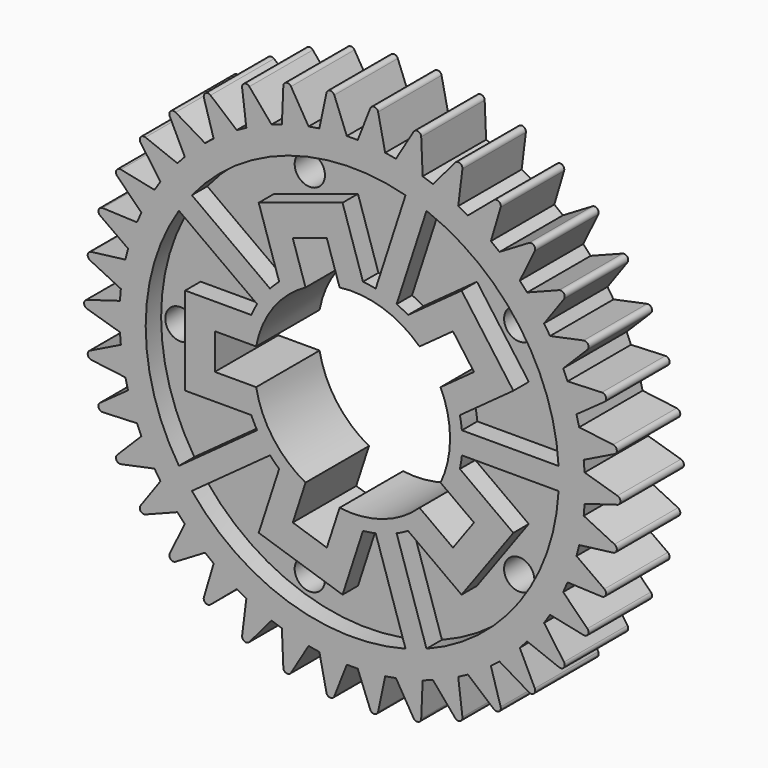
from build123d import *

# Parameters (mm, degrees)
F0_R     = 2.75
F1_DEPTH = 7.2
F2_R     = 2.75
F3_DEPTH = 3.5


with BuildPart() as f1:
    # F0 (on Front) → F1 (new body)
    with BuildSketch(Plane.XZ):
        with BuildLine():
            Line((-42.175971, 2.5), (-48.140595, 0.718635))
            ThreePointArc((-48.140595, 0.718635), (-48.675971, 0), (-48.140595, -0.718635))
            Line((-48.140595, -0.718635), (-42.175971, -2.5))
            Line((-42.175971, -2.5), (-42.012232, -4.476033))
            Line((-42.012232, -4.476033), (-47.602303, -7.214848))
            ThreePointArc((-47.602303, -7.214848), (-48.012094, -8.011801), (-47.365736, -8.632515))
            Line((-47.365736, -8.632515), (-41.189259, -9.40784))
            Line((-41.189259, -9.40784), (-40.702509, -11.329972))
            Line((-40.702509, -11.329972), (-45.765545, -14.951528))
            ThreePointArc((-45.765545, -14.951528), (-46.038572, -15.805062), (-45.298864, -16.310923))
            Line((-45.298864, -16.310923), (-39.079012, -16.059058))
            Line((-39.079012, -16.059058), (-38.282528, -17.874859))
            Line((-38.282528, -17.874859), (-42.680422, -22.28037))
            ThreePointArc((-42.680422, -22.28037), (-42.809238, -23.167201), (-41.996357, -23.544411))
            Line((-41.996357, -23.544411), (-35.902791, -22.272228))
            Line((-35.902791, -22.272228), (-34.818299, -23.932166))
            Line((-34.818299, -23.932166), (-38.431088, -29.001461))
            ThreePointArc((-38.431088, -29.001461), (-38.41218, -29.8974), (-37.548299, -30.135669))
            Line((-37.548299, -30.135669), (-31.747235, -27.877869))
            Line((-31.747235, -27.877869), (-30.404317, -29.336666))
            Line((-30.404317, -29.336666), (-33.133455, -34.931468))
            ThreePointArc((-33.133455, -34.931468), (-32.967338, -35.812075), (-32.076021, -35.904905))
            Line((-32.076021, -35.904905), (-26.725698, -32.723074))
            Line((-26.725698, -32.723074), (-25.160986, -33.940938))
            Line((-25.160986, -33.940938), (-26.932027, -39.908636))
            ThreePointArc((-26.932027, -39.908636), (-26.623232, -40.749891), (-25.728792, -40.694748))
            Line((-25.728792, -40.694748), (-20.975153, -36.675679))
            Line((-20.975153, -36.675679), (-19.231328, -37.61939))
            Line((-19.231328, -37.61939), (-19.995964, -43.7972))
            ThreePointArc((-19.995964, -43.7972), (-19.552915, -44.576156), (-18.67975, -44.374545))
            Line((-18.67975, -44.374545), (-14.652461, -39.627868))
            Line((-14.652461, -39.627868), (-12.777089, -40.271683))
            Line((-12.777089, -40.271683), (-12.514462, -46.491091))
            ThreePointArc((-12.514462, -46.491091), (-11.949244, -47.186499), (-11.121172, -46.84392))
            Line((-11.121172, -46.84392), (-7.930088, -41.499111))
            Line((-7.930088, -41.499111), (-5.974325, -41.82547))
            Line((-5.974325, -41.82547), (-4.691599, -47.916826))
            ThreePointArc((-4.691599, -47.916826), (-4.01963, -48.509718), (-3.259238, -48.035515))
            Line((-3.259238, -48.035515), (-0.991403, -42.238367))
            Line((-0.991403, -42.238367), (0.991403, -42.238367))
            Line((0.991403, -42.238367), (3.259238, -48.035515))
            ThreePointArc((3.259238, -48.035515), (4.01963, -48.509718), (4.691599, -47.916826))
            Line((4.691599, -47.916826), (5.974325, -41.82547))
            Line((5.974325, -41.82547), (7.930088, -41.499111))
            Line((7.930088, -41.499111), (11.121172, -46.84392))
            ThreePointArc((11.121172, -46.84392), (11.949244, -47.186499), (12.514462, -46.491091))
            Line((12.514462, -46.491091), (12.777089, -40.271683))
            Line((12.777089, -40.271683), (14.652461, -39.627868))
            Line((14.652461, -39.627868), (18.67975, -44.374545))
            ThreePointArc((18.67975, -44.374545), (19.552915, -44.576156), (19.995964, -43.7972))
            Line((19.995964, -43.7972), (19.231328, -37.61939))
            Line((19.231328, -37.61939), (20.975153, -36.675679))
            Line((20.975153, -36.675679), (25.728792, -40.694748))
            ThreePointArc((25.728792, -40.694748), (26.623232, -40.749891), (26.932027, -39.908636))
            Line((26.932027, -39.908636), (25.160986, -33.940938))
            Line((25.160986, -33.940938), (26.725698, -32.723074))
            Line((26.725698, -32.723074), (32.076021, -35.904905))
            ThreePointArc((32.076021, -35.904905), (32.967338, -35.812075), (33.133455, -34.931468))
            Line((33.133455, -34.931468), (30.404317, -29.336666))
            Line((30.404317, -29.336666), (31.747235, -27.877869))
            Line((31.747235, -27.877869), (37.548299, -30.135669))
            ThreePointArc((37.548299, -30.135669), (38.41218, -29.8974), (38.431088, -29.001461))
            Line((38.431088, -29.001461), (34.818299, -23.932166))
            Line((34.818299, -23.932166), (35.902791, -22.272228))
            Line((35.902791, -22.272228), (41.996357, -23.544411))
            ThreePointArc((41.996357, -23.544411), (42.809238, -23.167201), (42.680422, -22.28037))
            Line((42.680422, -22.28037), (38.282528, -17.874859))
            Line((38.282528, -17.874859), (39.079012, -16.059058))
            Line((39.079012, -16.059058), (45.298864, -16.310923))
            ThreePointArc((45.298864, -16.310923), (46.038572, -15.805062), (45.765545, -14.951528))
            Line((45.765545, -14.951528), (40.702509, -11.329972))
            Line((40.702509, -11.329972), (41.189259, -9.40784))
            Line((41.189259, -9.40784), (47.365736, -8.632515))
            ThreePointArc((47.365736, -8.632515), (48.012094, -8.011801), (47.602303, -7.214848))
            Line((47.602303, -7.214848), (42.012232, -4.476033))
            Line((42.012232, -4.476033), (42.175971, -2.5))
            Line((42.175971, -2.5), (48.140595, -0.718635))
            ThreePointArc((48.140595, -0.718635), (48.675971, 0), (48.140595, 0.718635))
            Line((48.140595, 0.718635), (42.175971, 2.5))
            Line((42.175971, 2.5), (42.012232, 4.476033))
            Line((42.012232, 4.476033), (47.602303, 7.214848))
            ThreePointArc((47.602303, 7.214848), (48.012094, 8.011801), (47.365736, 8.632515))
            Line((47.365736, 8.632515), (41.189259, 9.40784))
            Line((41.189259, 9.40784), (40.702509, 11.329972))
            Line((40.702509, 11.329972), (45.765545, 14.951528))
            ThreePointArc((45.765545, 14.951528), (46.038572, 15.805062), (45.298864, 16.310923))
            Line((45.298864, 16.310923), (39.079012, 16.059058))
            Line((39.079012, 16.059058), (38.282528, 17.874859))
            Line((38.282528, 17.874859), (42.680422, 22.28037))
            ThreePointArc((42.680422, 22.28037), (42.809238, 23.167201), (41.996357, 23.544411))
            Line((41.996357, 23.544411), (35.902791, 22.272228))
            Line((35.902791, 22.272228), (34.818299, 23.932166))
            Line((34.818299, 23.932166), (38.431088, 29.001461))
            ThreePointArc((38.431088, 29.001461), (38.41218, 29.8974), (37.548299, 30.135669))
            Line((37.548299, 30.135669), (31.747235, 27.877869))
            Line((31.747235, 27.877869), (30.404317, 29.336666))
            Line((30.404317, 29.336666), (33.133455, 34.931468))
            ThreePointArc((33.133455, 34.931468), (32.967338, 35.812075), (32.076021, 35.904905))
            Line((32.076021, 35.904905), (26.725698, 32.723074))
            Line((26.725698, 32.723074), (25.160986, 33.940938))
            Line((25.160986, 33.940938), (26.932027, 39.908636))
            ThreePointArc((26.932027, 39.908636), (26.623232, 40.749891), (25.728792, 40.694748))
            Line((25.728792, 40.694748), (20.975153, 36.675679))
            Line((20.975153, 36.675679), (19.231328, 37.61939))
            Line((19.231328, 37.61939), (19.995964, 43.7972))
            ThreePointArc((19.995964, 43.7972), (19.552915, 44.576156), (18.67975, 44.374545))
            Line((18.67975, 44.374545), (14.652461, 39.627868))
            Line((14.652461, 39.627868), (12.777089, 40.271683))
            Line((12.777089, 40.271683), (12.514462, 46.491091))
            ThreePointArc((12.514462, 46.491091), (11.949244, 47.186499), (11.121172, 46.84392))
            Line((11.121172, 46.84392), (7.930088, 41.499111))
            Line((7.930088, 41.499111), (5.974325, 41.82547))
            Line((5.974325, 41.82547), (4.691599, 47.916826))
            ThreePointArc((4.691599, 47.916826), (4.01963, 48.509718), (3.259238, 48.035515))
            Line((3.259238, 48.035515), (0.991403, 42.238367))
            Line((0.991403, 42.238367), (-0.991403, 42.238367))
            Line((-0.991403, 42.238367), (-3.259238, 48.035515))
            ThreePointArc((-3.259238, 48.035515), (-4.01963, 48.509718), (-4.691599, 47.916826))
            Line((-4.691599, 47.916826), (-5.974325, 41.82547))
            Line((-5.974325, 41.82547), (-7.930088, 41.499111))
            Line((-7.930088, 41.499111), (-11.121172, 46.84392))
            ThreePointArc((-11.121172, 46.84392), (-11.949244, 47.186499), (-12.514462, 46.491091))
            Line((-12.514462, 46.491091), (-12.777089, 40.271683))
            Line((-12.777089, 40.271683), (-14.652461, 39.627868))
            Line((-14.652461, 39.627868), (-18.67975, 44.374545))
            ThreePointArc((-18.67975, 44.374545), (-19.552915, 44.576156), (-19.995964, 43.7972))
            Line((-19.995964, 43.7972), (-19.231328, 37.61939))
            Line((-19.231328, 37.61939), (-20.975153, 36.675679))
            Line((-20.975153, 36.675679), (-25.728792, 40.694748))
            ThreePointArc((-25.728792, 40.694748), (-26.623232, 40.749891), (-26.932027, 39.908636))
            Line((-26.932027, 39.908636), (-25.160986, 33.940938))
            Line((-25.160986, 33.940938), (-26.725698, 32.723074))
            Line((-26.725698, 32.723074), (-32.076021, 35.904905))
            ThreePointArc((-32.076021, 35.904905), (-32.967338, 35.812075), (-33.133455, 34.931468))
            Line((-33.133455, 34.931468), (-30.404317, 29.336666))
            Line((-30.404317, 29.336666), (-31.747235, 27.877869))
            Line((-31.747235, 27.877869), (-37.548299, 30.135669))
            ThreePointArc((-37.548299, 30.135669), (-38.41218, 29.8974), (-38.431088, 29.001461))
            Line((-38.431088, 29.001461), (-34.818299, 23.932166))
            Line((-34.818299, 23.932166), (-35.902791, 22.272228))
            Line((-35.902791, 22.272228), (-41.996357, 23.544411))
            ThreePointArc((-41.996357, 23.544411), (-42.809238, 23.167201), (-42.680422, 22.28037))
            Line((-42.680422, 22.28037), (-38.282528, 17.874859))
            Line((-38.282528, 17.874859), (-39.079012, 16.059058))
            Line((-39.079012, 16.059058), (-45.298864, 16.310923))
            ThreePointArc((-45.298864, 16.310923), (-46.038572, 15.805062), (-45.765545, 14.951528))
            Line((-45.765545, 14.951528), (-40.702509, 11.329972))
            Line((-40.702509, 11.329972), (-41.189259, 9.40784))
            Line((-41.189259, 9.40784), (-47.365736, 8.632515))
            ThreePointArc((-47.365736, 8.632515), (-48.012094, 8.011801), (-47.602303, 7.214848))
            Line((-47.602303, 7.214848), (-42.012232, 4.476033))
            Line((-42.012232, 4.476033), (-42.175971, 2.5))
        make_face()
        with Locations((-10.506578, -32.335922)):
            Circle(F0_R, mode=Mode.SUBTRACT)
        with BuildLine():
            ThreePointArc((16.027591, 7.627505), (17.314044, 3.90978), (17.75, 0))
            ThreePointArc((17.75, 0), (17.314044, -3.90978), (16.027591, -7.627505))
            Line((16.027591, -7.627505), (22.095218, -12.035895))
            Line((22.095218, -12.035895), (18.274614, -17.294505))
            Line((18.274614, -17.294505), (12.206987, -12.886116))
            ThreePointArc((12.206987, -12.886116), (5.485052, -16.881253), (-2.301391, -17.600173))
            Line((-2.301391, -17.600173), (-4.619018, -24.733097))
            Line((-4.619018, -24.733097), (-10.800886, -22.724487))
            Line((-10.800886, -22.724487), (-8.483258, -15.591563))
            ThreePointArc((-8.483258, -15.591563), (-14.360052, -10.433188), (-17.449928, -3.25))
            Line((-17.449928, -3.25), (-24.949928, -3.25))
            Line((-24.949928, -3.25), (-24.949928, 3.25))
            Line((-24.949928, 3.25), (-17.449928, 3.25))
            ThreePointArc((-17.449928, 3.25), (-14.360052, 10.433188), (-8.483258, 15.591563))
            Line((-8.483258, 15.591563), (-10.800886, 22.724487))
            Line((-10.800886, 22.724487), (-4.619018, 24.733097))
            Line((-4.619018, 24.733097), (-2.301391, 17.600173))
            ThreePointArc((-2.301391, 17.600173), (5.485052, 16.881253), (12.206987, 12.886116))
            Line((12.206987, 12.886116), (18.274614, 17.294505))
            Line((18.274614, 17.294505), (22.095218, 12.035895))
            Line((22.095218, 12.035895), (16.027591, 7.627505))
        make_face(mode=Mode.SUBTRACT)
        with Locations((27.506578, -19.984699)):
            Circle(F0_R, mode=Mode.SUBTRACT)
        with Locations((-34, 0)):
            Circle(F0_R, mode=Mode.SUBTRACT)
        with Locations((-10.506578, 32.335922)):
            Circle(F0_R, mode=Mode.SUBTRACT)
        with Locations((27.506578, 19.984699)):
            Circle(F0_R, mode=Mode.SUBTRACT)
    extrude(amount=F1_DEPTH)

    # F2 (on face) → F3 (cut, symmetric)
    with BuildSketch(Plane.XZ.offset(7.2)):
        with BuildLine():
            Line((-17.274805, 10.078745), (-31.470529, 20.392542))
            ThreePointArc((-31.470529, 20.392542), (-37.5, 0), (-31.470529, -20.392542))
            Line((-31.470529, -20.392542), (-17.274805, -10.078745))
            ThreePointArc((-17.274805, -10.078745), (-17.832869, -9.054765), (-18.330303, -8))
            Line((-18.330303, -8), (-30.330303, -8))
            Line((-30.330303, -8), (-30.330303, 8))
            Line((-30.330303, 8), (-18.330303, 8))
            ThreePointArc((-18.330303, 8), (-17.832869, 9.054765), (-17.274805, 10.078745))
        make_face()
        with Locations((-34, 0)):
            Circle(F2_R, mode=Mode.SUBTRACT)
        with BuildLine():
            Line((4.247248, 19.54382), (9.669532, 36.231894))
            ThreePointArc((9.669532, 36.231894), (-11.588137, 35.664619), (-29.119388, 23.62861))
            Line((-29.119388, 23.62861), (-14.923664, 13.314813))
            ThreePointArc((-14.923664, 13.314813), (-14.122253, 14.16199), (-13.272827, 14.961018))
            Line((-13.272827, 14.961018), (-16.981031, 26.373696))
            Line((-16.981031, 26.373696), (-1.764127, 31.317968))
            Line((-1.764127, 31.317968), (1.944077, 19.90529))
            ThreePointArc((1.944077, 19.90529), (3.100934, 19.758143), (4.247248, 19.54382))
        make_face()
        with Locations((-10.506578, 32.335922)):
            Circle(F2_R, mode=Mode.SUBTRACT)
        with BuildLine():
            ThreePointArc((19.531808, 4.302146), (19.749352, 3.156439), (19.899749, 2))
            Line((19.899749, 2), (37.446629, 2))
            ThreePointArc((37.446629, 2), (30.338137, 22.041947), (13.473758, 34.995826))
            Line((13.473758, 34.995826), (8.051474, 18.307752))
            ThreePointArc((8.051474, 18.307752), (9.104837, 17.807356), (10.127244, 17.246418))
            Line((10.127244, 17.246418), (19.835448, 24.299841))
            Line((19.835448, 24.299841), (29.240012, 11.355569))
            Line((29.240012, 11.355569), (19.531808, 4.302146))
        make_face()
        with Locations((27.506578, 19.984699)):
            Circle(F2_R, mode=Mode.SUBTRACT)
        with BuildLine():
            Line((37.446629, -2), (19.899749, -2))
            ThreePointArc((19.899749, -2), (19.749352, -3.156439), (19.531808, -4.302146))
            Line((19.531808, -4.302146), (29.240012, -11.355569))
            Line((29.240012, -11.355569), (19.835448, -24.299841))
            Line((19.835448, -24.299841), (10.127244, -17.246418))
            ThreePointArc((10.127244, -17.246418), (9.104837, -17.807356), (8.051474, -18.307752))
            Line((8.051474, -18.307752), (13.473758, -34.995826))
            ThreePointArc((13.473758, -34.995826), (30.338137, -22.041947), (37.446629, -2))
        make_face()
        with Locations((27.506578, -19.984699)):
            Circle(F2_R, mode=Mode.SUBTRACT)
        with BuildLine():
            ThreePointArc((-29.119388, -23.62861), (-11.588137, -35.664619), (9.669532, -36.231894))
            Line((9.669532, -36.231894), (4.247248, -19.54382))
            ThreePointArc((4.247248, -19.54382), (3.100934, -19.758143), (1.944077, -19.90529))
            Line((1.944077, -19.90529), (-1.764127, -31.317968))
            Line((-1.764127, -31.317968), (-16.981031, -26.373696))
            Line((-16.981031, -26.373696), (-13.272827, -14.961018))
            ThreePointArc((-13.272827, -14.961018), (-14.122253, -14.16199), (-14.923664, -13.314813))
            Line((-14.923664, -13.314813), (-29.119388, -23.62861))
        make_face()
        with Locations((-10.506578, -32.335922)):
            Circle(F2_R, mode=Mode.SUBTRACT)
    extrude(amount=F3_DEPTH, both=True, mode=Mode.SUBTRACT)

    # F4: F1 across face


with BuildPart() as f1_1:
    add(f1.part)
    add(f1.part.mirror(Plane(origin=(0, 0, 0), x_dir=(1, 0, 0), z_dir=(0, 1, 0))))


solid = f1_1.part
